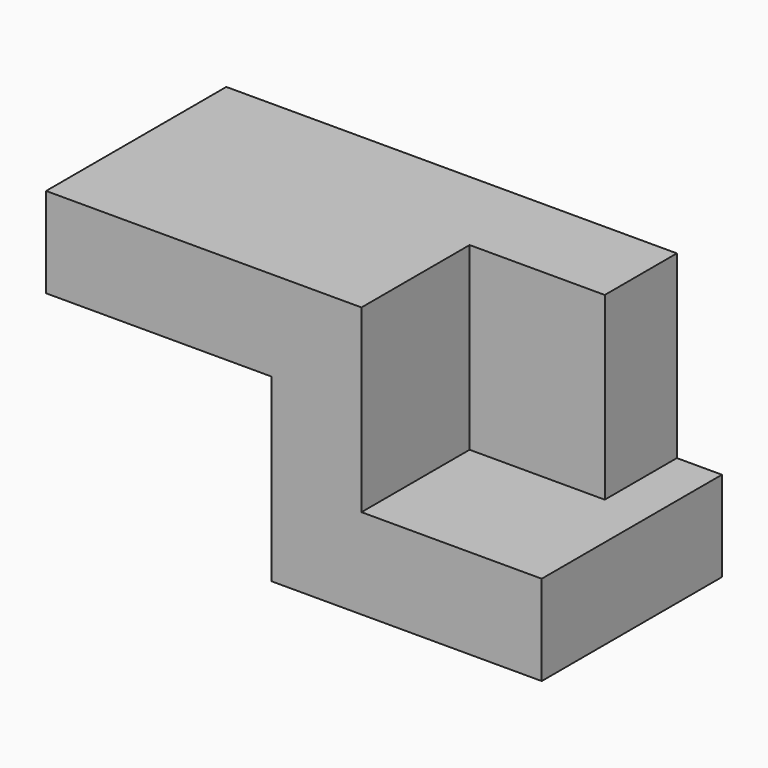
from build123d import *

# Parameters (mm, degrees)
F0_W     = 76.2
F0_H     = 63.5
F1_DEPTH = 25.4
F3_DEPTH = 50.8
F4_W     = 63.5
F4_H     = 25.4
F5_DEPTH = 63.5


with BuildPart() as f1:
    # F0 (on Top) → F1 (new body)
    with BuildSketch(Plane.XY):
        with Locations((2.294857, 8.704231)):
            Rectangle(F0_W, F0_H)
    extrude(amount=F1_DEPTH)

    # F2 (on face) → F3 (join)
    with BuildSketch(Plane.XY.offset(25.4)):
        Polygon((-35.805143, 40.454231), (-35.805143, -23.045769), (-10.405143, -23.045769), (-10.405143, 15.054231), (27.694857, 15.054231), (27.694857, 40.454231), align=None)
    extrude(amount=F3_DEPTH)

    # F4 (on face) → F5 (join)
    with BuildSketch(Plane(origin=(-35.805143, 0, 0), x_dir=(0, -1, 0), z_dir=(-1, 0, 0))):
        with Locations((-8.704231, 63.5)):
            Rectangle(F4_W, F4_H)
    extrude(amount=F5_DEPTH)


solid = f1.part
